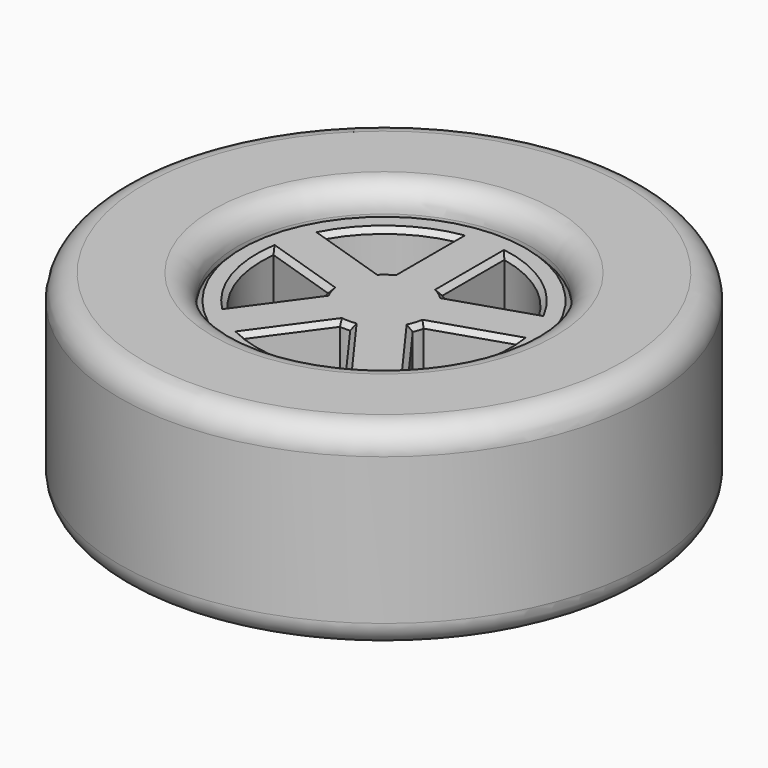
from build123d import *

# Parameters (mm, degrees)
F0_R     = 54
F0_R_2   = 30
F1_DEPTH = 40
F2_START = 5
F2_DEPTH = 30
F3_R     = 5
F4_SIZE  = 1


with BuildPart() as f1:
    # F0 (on Top) → F1 (new body)
    with BuildSketch(Plane.XY):
        Circle(F0_R)
        Circle(F0_R_2, mode=Mode.SUBTRACT)
    extrude(amount=F1_DEPTH)

    # F3
    f3_edges = [f1.edges().sort_by_distance(p)[0] for p in [
        (-54, 0, 40),
        (-54, 0, 0),
        (-30, 0, 40),
        (-30, 0, 0),
    ]]
    fillet(f3_edges, radius=F3_R)


with BuildPart() as f2:
    # F0 (on Top) → F2 (new body)
    with BuildSketch(Plane.XY.offset(F2_START)):
        Circle(F0_R_2)
        with BuildLine():
            ThreePointArc((-18.4428244364, -16.8778620331), (-23.7764129074, -7.7254248594), (-24.8411167866, 2.8140569992))
            Line((-24.8411167866, 2.8140569992), (-9.7814760073, -2.0791169082))
            ThreePointArc((-9.7814760073, -2.0791169082), (-9.510565163, -3.0901699437), (-9.1354545764, -4.0673664308))
            Line((-9.1354545764, -4.0673664308), (-18.4428244364, -16.8778620331))
        make_face(mode=Mode.SUBTRACT)
        with BuildLine():
            ThreePointArc((10.3526544926, -22.755714556), (0, -25), (-10.3526544926, -22.755714556))
            Line((-10.3526544926, -22.755714556), (-1.0452846327, -9.9452189537))
            ThreePointArc((-1.0452846327, -9.9452189537), (0, -10), (1.0452846327, -9.9452189537))
            Line((1.0452846327, -9.9452189537), (10.3526544926, -22.755714556))
        make_face(mode=Mode.SUBTRACT)
        with BuildLine():
            Line((18.4428244364, -16.8778620331), (9.1354545764, -4.0673664308))
            ThreePointArc((9.1354545764, -4.0673664308), (9.510565163, -3.0901699437), (9.7814760073, -2.0791169082))
            Line((9.7814760073, -2.0791169082), (24.8411167866, 2.8140569992))
            ThreePointArc((24.8411167866, 2.8140569992), (23.7764129074, -7.7254248594), (18.4428244364, -16.8778620331))
        make_face(mode=Mode.SUBTRACT)
        with BuildLine():
            Line((-5, 24.4948974278), (-5, 8.6602540378))
            ThreePointArc((-5, 8.6602540378), (-5.8778525229, 8.0901699437), (-6.6913060636, 7.4314482548))
            Line((-6.6913060636, 7.4314482548), (-21.7509468428, 12.3246221621))
            ThreePointArc((-21.7509468428, 12.3246221621), (-14.6946313073, 20.2254248594), (-5, 24.4948974278))
        make_face(mode=Mode.SUBTRACT)
        with BuildLine():
            ThreePointArc((6.6913060636, 7.4314482548), (5.8778525229, 8.0901699437), (5, 8.6602540378))
            Line((5, 8.6602540378), (5, 24.4948974278))
            ThreePointArc((5, 24.4948974278), (14.6946313073, 20.2254248594), (21.7509468428, 12.3246221621))
            Line((21.7509468428, 12.3246221621), (6.6913060636, 7.4314482548))
        make_face(mode=Mode.SUBTRACT)
    extrude(amount=F2_DEPTH)

    # F4
    f4_edges = [f2.edges().sort_by_distance(p)[0] for p in [
        (-30, 0, 35),
        (-9.510565, -3.09017, 35),
        (-13.78914, -10.472614, 35),
        (-23.776413, -7.725425, 35),
        (-17.311296, 0.36747, 35),
        (0, -25, 35),
        (-5.69897, -16.350467, 35),
        (0, -10, 35),
        (5.69897, -16.350467, 35),
        (23.776413, -7.725425, 35),
        (13.78914, -10.472614, 35),
        (9.510565, -3.09017, 35),
        (17.311296, 0.36747, 35),
        (-5, 16.577576, 35),
        (-5.877853, 8.09017, 35),
        (-14.221126, 9.878035, 35),
        (-14.694631, 20.225425, 35),
        (14.221126, 9.878035, 35),
        (5.877853, 8.09017, 35),
        (5, 16.577576, 35),
        (14.694631, 20.225425, 35),
        (-30, 0, 5),
        (-9.510565, -3.09017, 5),
        (-13.78914, -10.472614, 5),
        (-23.776413, -7.725425, 5),
        (-17.311296, 0.36747, 5),
        (0, -25, 5),
        (-5.69897, -16.350467, 5),
        (0, -10, 5),
        (5.69897, -16.350467, 5),
        (23.776413, -7.725425, 5),
        (13.78914, -10.472614, 5),
        (9.510565, -3.09017, 5),
        (17.311296, 0.36747, 5),
        (-5, 16.577576, 5),
        (-5.877853, 8.09017, 5),
        (-14.221126, 9.878035, 5),
        (-14.694631, 20.225425, 5),
        (14.221126, 9.878035, 5),
        (5.877853, 8.09017, 5),
        (5, 16.577576, 5),
        (14.694631, 20.225425, 5),
    ]]
    chamfer(f4_edges, length=F4_SIZE)


solid = Compound([f1.part, f2.part])
